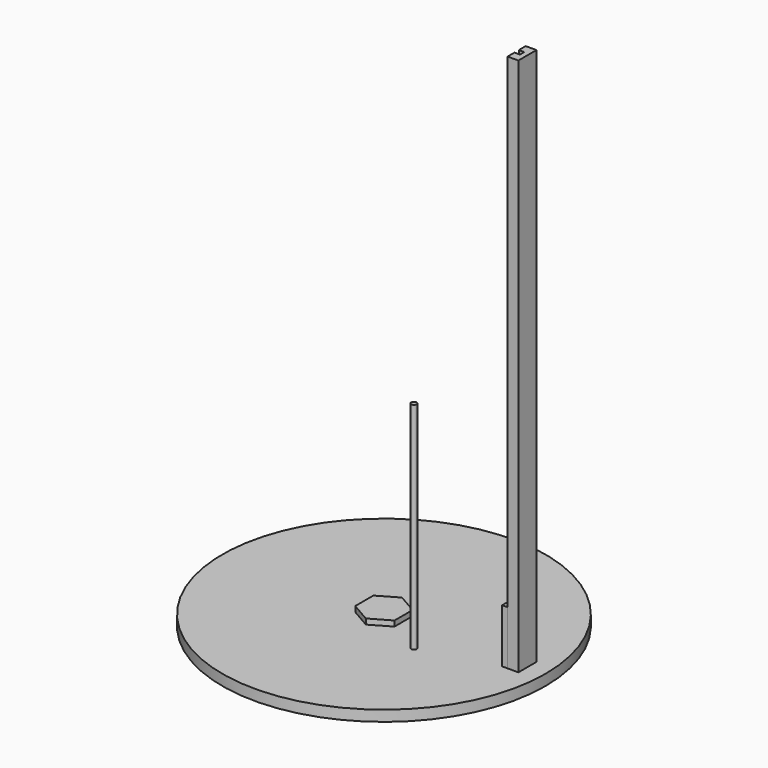
from build123d import *

# Parameters (mm, degrees)
F1_DEPTH = 500
F2_DEPTH = 5
F3_DEPTH = 50
F0_R     = 2.5
F4_DEPTH = 200
F0_R_2   = 150
F5_DEPTH = 10


with BuildPart() as f1:
    # F0 (on Top) → F1 (new body)
    with BuildSketch(Plane.XY):
        Polygon((133.19461, 10.504663), (123.19461, 10.504663), (123.19461, 2.526928), (128.209675, 2.526928), (128.209675, -2.526928), (123.19461, -2.526928), (123.19461, -10.504663), (133.19461, -10.504663), align=None)
    extrude(amount=F1_DEPTH)


with BuildPart() as f2:
    # F0 (on Top) → F2 (new body)
    with BuildSketch(Plane.XY):
        Polygon((18.19461, -10.504663), (18.19461, 10.504663), (0, 21.009326), (-18.19461, 10.504663), (-18.19461, -10.504663), (0, -21.009326), align=None)
    extrude(amount=F2_DEPTH)


with BuildPart() as f3:
    # F0 (on Top) → F3 (new body)
    with BuildSketch(Plane.XY):
        Polygon((123.19461, 10.504663), (118.19461, 10.504663), (118.19461, -10.504663), (123.19461, -10.504663), (123.19461, -2.526928), (128.209675, -2.526928), (128.209675, 2.526928), (123.19461, 2.526928), align=None)
    extrude(amount=F3_DEPTH)


with BuildPart() as f4:
    # F0 (on Top) → F4 (new body)
    with BuildSketch(Plane.XY):
        with Locations((50.273504, -28.051721)):
            Circle(F0_R)
    extrude(amount=F4_DEPTH)


with BuildPart() as f5:
    # F0 (on Top) → F5 (new body)
    with BuildSketch(Plane.XY):
        Circle(F0_R_2)
        with Locations((50.273504, -28.051721)):
            Circle(F0_R, mode=Mode.SUBTRACT)
        Polygon((0, 21.009326), (18.19461, 10.504663), (18.19461, -10.504663), (0, -21.009326), (-18.19461, -10.504663), (-18.19461, 10.504663), align=None, mode=Mode.SUBTRACT)
        Polygon((118.19461, -10.504663), (118.19461, 10.504663), (123.19461, 10.504663), (133.19461, 10.504663), (133.19461, -10.504663), (123.19461, -10.504663), align=None, mode=Mode.SUBTRACT)
        Polygon((133.19461, 10.504663), (123.19461, 10.504663), (123.19461, 2.526928), (128.209675, 2.526928), (128.209675, -2.526928), (123.19461, -2.526928), (123.19461, -10.504663), (133.19461, -10.504663), align=None)
        Polygon((123.19461, 10.504663), (118.19461, 10.504663), (118.19461, -10.504663), (123.19461, -10.504663), (123.19461, -2.526928), (128.209675, -2.526928), (128.209675, 2.526928), (123.19461, 2.526928), align=None)
        Polygon((18.19461, -10.504663), (18.19461, 10.504663), (0, 21.009326), (-18.19461, 10.504663), (-18.19461, -10.504663), (0, -21.009326), align=None)
        with Locations((50.273504, -28.051721)):
            Circle(F0_R)
    extrude(amount=-F5_DEPTH)


solid = Compound([f1.part, f2.part, f3.part, f4.part, f5.part])
